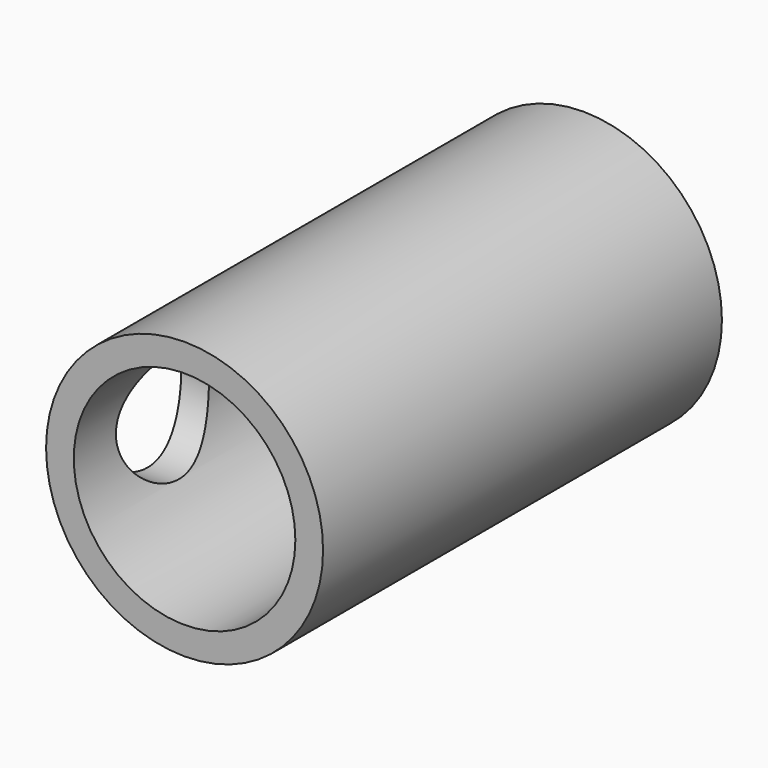
from build123d import *

# Parameters (mm, degrees)
F0_R     = 5
F1_DEPTH = 18
F2_R     = 4
F3_DEPTH = 8
F4_R     = 2.5
F5_DEPTH = 8
F7_D     = 4.2
F7_DEPTH = 14.4
F7_TIP   = 1.2618073
F8_D     = 4.2
F8_DEPTH = 14.4
F8_TIP   = 1.2618073


with BuildPart() as f1:
    # F0 (on Front) → F1 (new body)
    with BuildSketch(Plane.XZ):
        Circle(F0_R)
    extrude(amount=F1_DEPTH)

    # F2 (on face) → F3 (cut)
    with BuildSketch(Plane.XZ.offset(18)):
        Circle(F2_R)
    extrude(amount=-F3_DEPTH, mode=Mode.SUBTRACT)

    # F4 (on face) → F5 (cut)
    with BuildSketch(Plane(origin=(0, 0, 0), x_dir=(-1, 0, 0), z_dir=(0, 1, 0))):
        Circle(F4_R)
    extrude(amount=-F5_DEPTH, mode=Mode.SUBTRACT)

    # F7 (one way)
    with BuildSketch(Plane.YZ):
        with Locations((-4, 0)):
            Circle(F7_D / 2)
    extrude(amount=-F7_DEPTH, mode=Mode.SUBTRACT)
    with Locations(Plane.YZ):
        with Locations((-4, 0)):
            with Locations((0, 0, -(F7_DEPTH + F7_TIP / 2))):  # 118° drill point
                Cone(0, F7_D / 2, F7_TIP, mode=Mode.SUBTRACT)

    # F8 (one way)
    with BuildSketch(Plane.YZ):
        with Locations((-14, 0)):
            Circle(F8_D / 2)
    extrude(amount=-F8_DEPTH, mode=Mode.SUBTRACT)
    with Locations(Plane.YZ):
        with Locations((-14, 0)):
            with Locations((0, 0, -(F8_DEPTH + F8_TIP / 2))):  # 118° drill point
                Cone(0, F8_D / 2, F8_TIP, mode=Mode.SUBTRACT)


solid = f1.part
